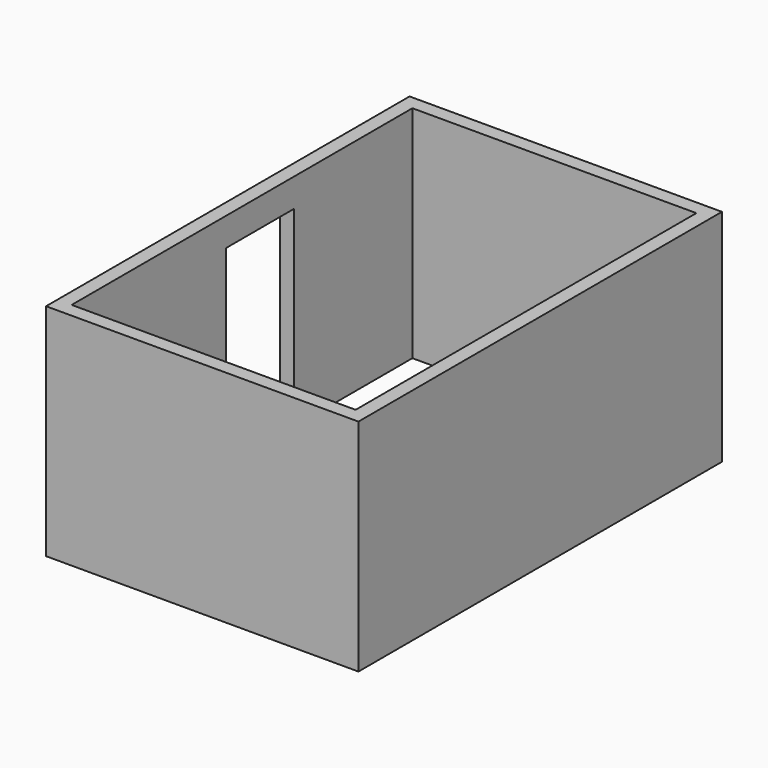
from build123d import *

# Parameters (mm, degrees)
F0_W     = 57.2179496288
F0_H     = 100
F1_DEPTH = 1550
F2_W     = 600
F2_H     = 1350
F3_DEPTH = 1090


with BuildPart() as f1:
    # F0 (on Top) → F1 (new body)
    with BuildSketch(Plane.XY):
        with BuildLine():
            ThreePointArc((1319.0974116325, 1785.5041651916), (1268.5872301316, 1781.905542998), (1219.0974116325, 1771.1823726703))
            Line((1219.0974116325, 1771.1823726703), (1219.0974116325, 1429.2249590158))
            Line((1219.0974116325, 1429.2249590158), (1319.0974116325, 1429.2249590158))
            Line((1319.0974116325, 1429.2249590158), (1319.0974116325, 1785.5041651916))
        make_face()
        with BuildLine():
            Line((1319.0974116325, 1429.2249590158), (1219.0974116325, 1429.2249590158))
            Line((1219.0974116325, 1429.2249590158), (1219.0974116325, 1087.2675453614))
            ThreePointArc((1219.0974116325, 1087.2675453614), (1268.5872301316, 1076.5443750337), (1319.0974116325, 1072.9457528401))
            Line((1319.0974116325, 1072.9457528401), (1319.0974116325, 1429.2249590158))
        make_face()
        with BuildLine():
            ThreePointArc((1319.0974116325, 1072.9457528401), (1268.5872301316, 1076.5443750337), (1219.0974116325, 1087.2675453614))
            Line((1219.0974116325, 1087.2675453614), (1219.0974116325, -70.7750409842))
            Line((1219.0974116325, -70.7750409842), (1319.0974116325, -70.7750409842))
            Line((1319.0974116325, -70.7750409842), (1319.0974116325, 1072.9457528401))
        make_face()
        with Locations((490.4884368181, -120.7750409842)):
            Rectangle(F0_W, F0_H)
        Polygon((519.0974116325, -70.7750409842), (519.0974116325, -170.7750409842), (1319.0974116325, -170.7750409842), (1319.0974116325, -70.7750409842), (1219.0974116325, -70.7750409842), align=None)
        Polygon((-780.9025883675, -70.7750409842), (-880.9025883675, -70.7750409842), (-880.9025883675, -170.7750409842), (461.8794620037, -170.7750409842), (461.8794620037, -70.7750409842), (11.8794620037, -70.7750409842), align=None)
        Polygon((-880.9025883675, 2929.2249590158), (-780.9025883675, 2929.2249590158), (419.0974116325, 2929.2249590158), (850.3283262253, 2929.2249590158), (1219.0974116325, 2929.2249590158), (1319.0974116325, 2929.2249590158), (1319.0974116325, 3029.2249590158), (-880.9025883675, 3029.2249590158), align=None)
        Polygon((-780.9025883675, 1429.2249590158), (-780.9025883675, 2929.2249590158), (-880.9025883675, 2929.2249590158), (-880.9025883675, -70.7750409842), (-780.9025883675, -70.7750409842), (-780.9025883675, 932.5590729713), (-780.9025883675, 1029.2249590158), align=None)
        with BuildLine():
            Line((1319.0974116325, 2929.2249590158), (1219.0974116325, 2929.2249590158))
            Line((1219.0974116325, 2929.2249590158), (1219.0974116325, 1771.1823726703))
            ThreePointArc((1219.0974116325, 1771.1823726703), (1268.5872301316, 1781.905542998), (1319.0974116325, 1785.5041651916))
            Line((1319.0974116325, 1785.5041651916), (1319.0974116325, 2929.2249590158))
        make_face()
    extrude(amount=F1_DEPTH)

    # F2 (on face) → F3 (cut)
    with BuildSketch(Plane(origin=(-880.9025883675, 0, 0), x_dir=(0, -1, 0), z_dir=(-1, 0, 0))):
        with Locations((-1586.88621521, 675)):
            Rectangle(F2_W, F2_H)
    extrude(amount=-F3_DEPTH, mode=Mode.SUBTRACT)


solid = f1.part
